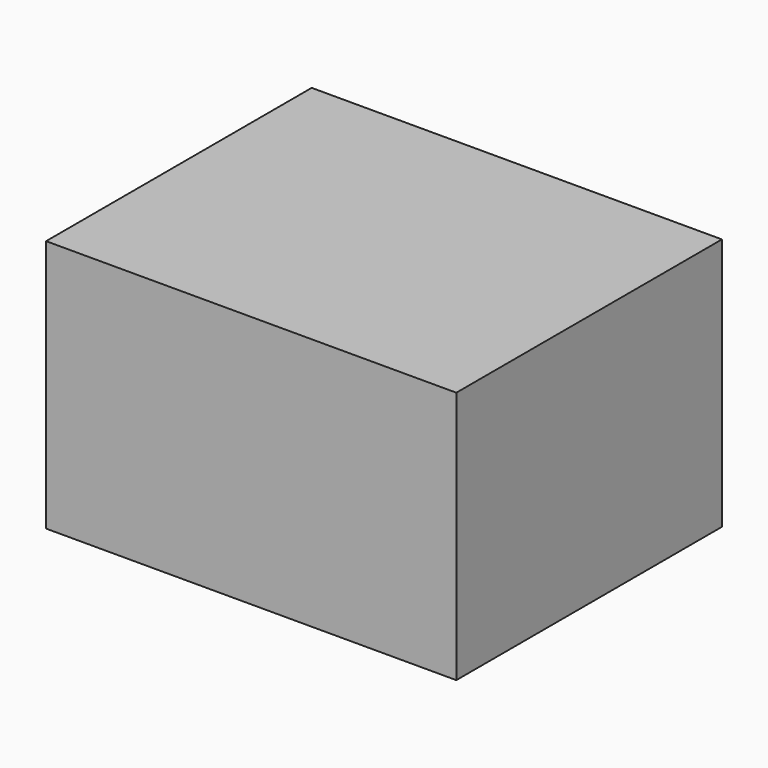
from build123d import *

# Parameters (mm, degrees)
SKETCH_W         = 0.1
SKETCH_H         = 0.1
EXTRUDE_DEPTH    = 50
SKETCH001_W      = 0.1
SKETCH001_H      = 0.1
EXTRUDE001_DEPTH = 26.79
EXTRUDE002_DEPTH = 0.25
SKETCH013_W      = 486.32753
SKETCH013_H      = 393.582382
EXTRUDE003_DEPTH = 150
SKETCH014_W      = 58.362802
SKETCH014_H      = 48.80336
EXTRUDE004_DEPTH = 51


with BuildPart() as top_part:
    # Sketch → Extrude (new body)
    with BuildSketch(Plane.XY.offset(0.1)):
        Rectangle(SKETCH_W, SKETCH_H)
    extrude(amount=EXTRUDE_DEPTH)


with BuildPart() as bottom_part:
    # Sketch001 → Extrude001 (new body)
    with BuildSketch(Plane.XY.offset(-0.1)):
        Rectangle(SKETCH001_W, SKETCH001_H)
    extrude(amount=-EXTRUDE001_DEPTH)


with BuildPart() as port_in:
    # Sketch001 → Extrude002 (new body)
    with BuildSketch(Plane.XY.offset(-0.1)):
        Rectangle(SKETCH001_W, SKETCH001_H)
    extrude(amount=EXTRUDE002_DEPTH)


with BuildPart() as port_in_1:
    # Extrude002 placement: moved
    add(port_in.part.moved(Location((0, 0, -0.03))))


with BuildPart() as simbox:
    # Sketch013 → Extrude003 (new body, symmetric)
    with BuildSketch(Plane.XY):
        with Locations((8.062431, -3.464378)):
            Rectangle(SKETCH013_W, SKETCH013_H)
    extrude(amount=EXTRUDE003_DEPTH, both=True)


with BuildPart() as obj1:
    # Sketch014 → Extrude004 (new body, symmetric)
    with BuildSketch(Plane.XY):
        with Locations((1.207156, -1.371159)):
            Rectangle(SKETCH014_W, SKETCH014_H)
    extrude(amount=EXTRUDE004_DEPTH, both=True)


solid = Compound([top_part.part, bottom_part.part, port_in_1.part, simbox.part, obj1.part])
